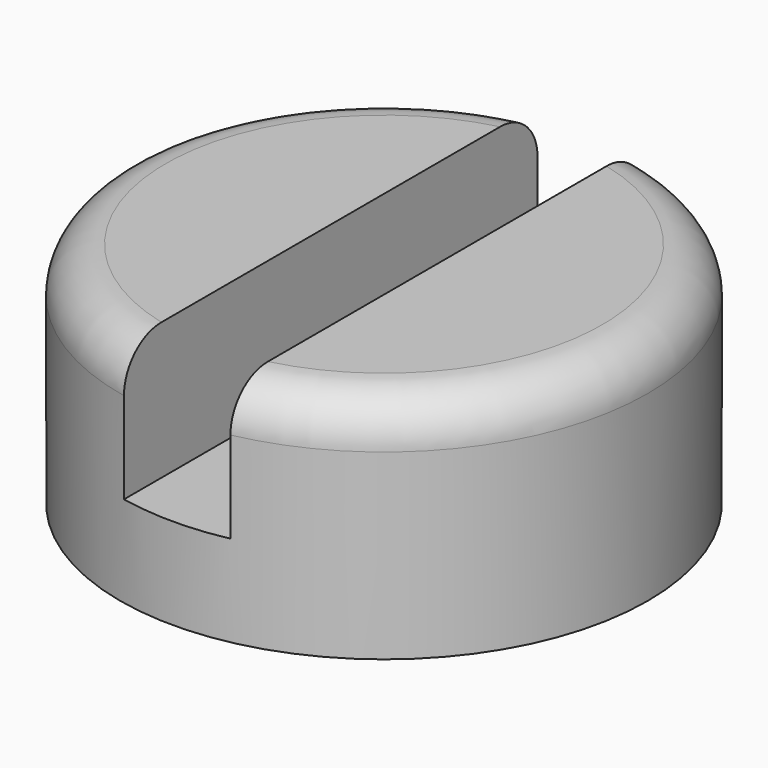
from build123d import *

# Parameters (mm, degrees)
SKETCH009_R     = 1.735
PAD004_DEPTH    = 1.5
SKETCH010_W     = 0.7
SKETCH010_H     = 4
POCKET003_DEPTH = 0.9
FILLET003_R     = 0.3


with BuildPart() as part:
    # Sketch009 → Pad004 (new body)
    with BuildSketch(Plane.XY):
        Circle(SKETCH009_R)
    extrude(amount=PAD004_DEPTH)

    # Sketch010 (on Face3 of Pad004) → Pocket003 (cut)
    with BuildSketch(Plane.XY.offset(1.5)):
        Rectangle(SKETCH010_W, SKETCH010_H)
    extrude(amount=-POCKET003_DEPTH, mode=Mode.SUBTRACT)

    # Fillet003
    fillet003_edges = [part.edges().sort_by_distance(p)[0] for p in [
        (1.344893, -1.096124, 1.5),
        (-1.735, 0, 1.5),
    ]]
    fillet(fillet003_edges, radius=FILLET003_R)


with BuildPart() as part_1:
    # Body003 placement: moved
    add(part.part.moved(Location((3.477525, 0, 6.9297))))


solid = part_1.part
